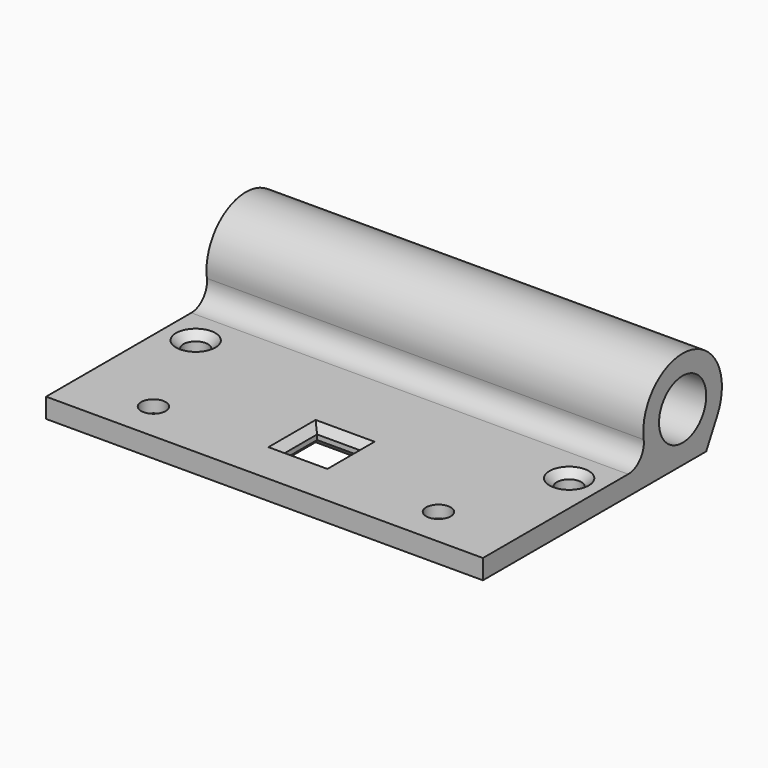
from build123d import *

# Parameters (mm, degrees)
SKETCH_W     = 88.9
SKETCH_H     = 50.8
SKETCH_R     = 2.5
SKETCH_W_2   = 9
SKETCH_H_2   = 9
PAD_DEPTH    = 4
SKETCH001_R  = 6
PAD001_DEPTH = 88.9
FILLET_R     = 4
CHAMFER_SIZE = 1.5


with BuildPart() as part:
    # Sketch → Pad (new body)
    with BuildSketch(Plane.XY):
        with Locations((44.45, 25.4)):
            Rectangle(SKETCH_W, SKETCH_H)
        with Locations((15.45, 8)):
            Circle(SKETCH_R, mode=Mode.SUBTRACT)
        with Locations((73.45, 8)):
            Circle(SKETCH_R, mode=Mode.SUBTRACT)
        with Locations((6.45, 30)):
            Circle(SKETCH_R, mode=Mode.SUBTRACT)
        with Locations((82.45, 30)):
            Circle(SKETCH_R, mode=Mode.SUBTRACT)
        with Locations((44.45, 14.5)):
            Rectangle(SKETCH_W_2, SKETCH_H_2, mode=Mode.SUBTRACT)
    extrude(amount=PAD_DEPTH)

    # Sketch001 (on Face4 of Pad) → Pad001 (join)
    with BuildSketch(Plane(origin=(0, 0, 0), x_dir=(0, -1, 0), z_dir=(-1, 0, 0))):
        with BuildLine():
            Line((-50.8, 0), (-56.8, 0))
            Line((-56.8, 0), (-59.623533, 5.294124))
            ThreePointArc((-50.8, 0), (-45.655039, 18.574927), (-59.623533, 5.294124))
        make_face()
        with Locations((-50.8, 10)):
            Circle(SKETCH001_R, mode=Mode.SUBTRACT)
    extrude(amount=-PAD001_DEPTH)

    # Fillet
    fillet_edges = [part.edges().sort_by_distance(p)[0] for p in [
        (44.45, 42.8, 4),
    ]]
    fillet(fillet_edges, radius=FILLET_R)

    # Chamfer
    chamfer_edges = [part.edges().sort_by_distance(p)[0] for p in [
        (79.95, 30, 4),
        (3.95, 30, 4),
        (70.95, 8, 0),
        (12.95, 8, 0),
        (44.45, 10, 0),
        (39.95, 14.5, 0),
        (44.45, 19, 0),
        (48.95, 14.5, 0),
        (39.95, 14.5, 4),
        (44.45, 19, 4),
        (48.95, 14.5, 4),
        (44.45, 10, 4),
    ]]
    chamfer(chamfer_edges, length=CHAMFER_SIZE)


solid = part.part
